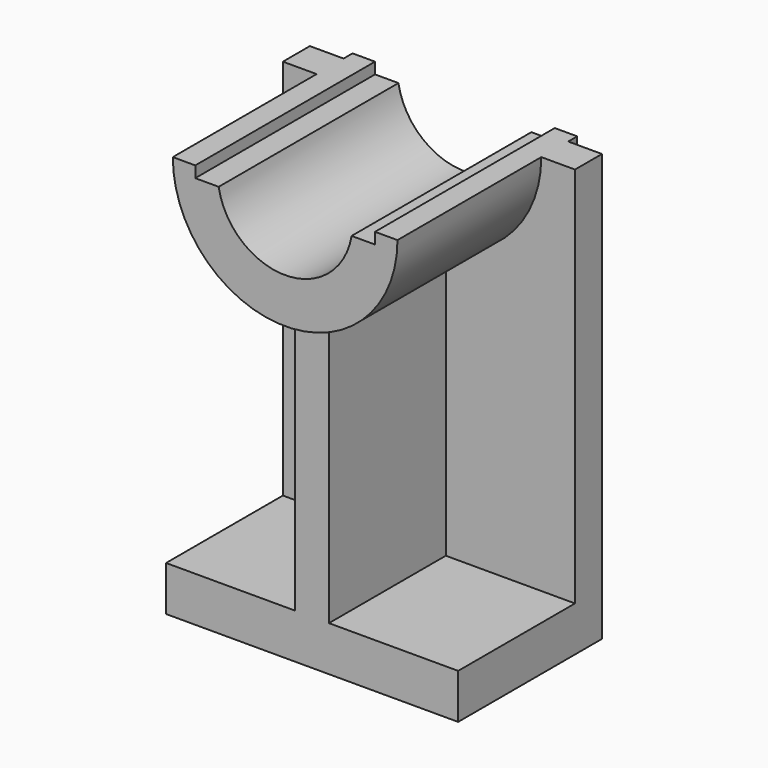
from build123d import *

# Parameters (mm, degrees)
F1_DEPTH = 215.9
F0_W     = 73.025
F0_H     = 82.55
F2_DEPTH = 25.4
F4_DEPTH = 120.65
F5_DEPTH = 127
F6_DEPTH = 6.35


with BuildPart() as f1:
    # F0 (on Top) → F1 (new body)
    with BuildSketch(Plane.XY):
        Polygon((73.025, 82.55), (73.025, 0), (92.075, 0), (92.075, 82.55), (165.1, 82.55), (165.1, 101.6), (0, 101.6), (0, 82.55), align=None)
    extrude(amount=F1_DEPTH)

    # F0 (on Top) + F1_face (on face) → F2 (join)
    with BuildSketch(Plane.XY):
        with Locations((36.5125, 41.275)):
            Rectangle(F0_W, F0_H)
        with Locations((128.5875, 41.275)):
            Rectangle(F0_W, F0_H)
    with BuildSketch(Plane(origin=(82.55, 75.141667, 215.9), x_dir=(1, 0, 0), z_dir=(0, 0, 1))):
        Polygon((-9.525, 7.408333), (-9.525, -75.141667), (9.525, -75.141667), (9.525, 7.408333), (82.55, 7.408333), (82.55, 26.458333), (-82.55, 26.458333), (-82.55, 7.408333), align=None)
    extrude(amount=F2_DEPTH)

    # F3 (on face) → F4 (join)
    with BuildSketch(Plane(origin=(0, 101.6, 0), x_dir=(-1, 0, 0), z_dir=(0, 1, 0))):
        with BuildLine():
            Line((-133.35, 241.3), (-146.05, 241.3))
            ThreePointArc((-146.05, 241.3), (-82.55, 177.8), (-19.05, 241.3))
            Line((-19.05, 241.3), (-31.75, 241.3))
            Line((-31.75, 241.3), (-31.75, 234.95))
            Line((-31.75, 234.95), (-44.982893, 234.95))
            ThreePointArc((-44.982893, 234.95), (-82.55, 203.2), (-120.117107, 234.95))
            Line((-120.117107, 234.95), (-133.35, 234.95))
            Line((-133.35, 234.95), (-133.35, 241.3))
        make_face()
    extrude(amount=-F4_DEPTH)

    # F3 (on face) → F5 (cut)
    with BuildSketch(Plane(origin=(0, 101.6, 0), x_dir=(-1, 0, 0), z_dir=(0, 1, 0))):
        with BuildLine():
            Line((-82.55, 241.3), (-133.35, 241.3))
            Line((-133.35, 241.3), (-133.35, 234.95))
            Line((-133.35, 234.95), (-120.117107, 234.95))
            ThreePointArc((-120.117107, 234.95), (-82.55, 203.2), (-44.982893, 234.95))
            Line((-44.982893, 234.95), (-31.75, 234.95))
            Line((-31.75, 234.95), (-31.75, 241.3))
            Line((-31.75, 241.3), (-82.55, 241.3))
        make_face()
    extrude(amount=-F5_DEPTH, mode=Mode.SUBTRACT)

    # F3 (on face) → F6 (join)
    with BuildSketch(Plane(origin=(0, 101.6, 0), x_dir=(-1, 0, 0), z_dir=(0, 1, 0))):
        with BuildLine():
            Line((-133.35, 241.3), (-146.05, 241.3))
            ThreePointArc((-146.05, 241.3), (-82.55, 177.8), (-19.05, 241.3))
            Line((-19.05, 241.3), (-31.75, 241.3))
            Line((-31.75, 241.3), (-31.75, 234.95))
            Line((-31.75, 234.95), (-44.982893, 234.95))
            ThreePointArc((-44.982893, 234.95), (-82.55, 203.2), (-120.117107, 234.95))
            Line((-120.117107, 234.95), (-133.35, 234.95))
            Line((-133.35, 234.95), (-133.35, 241.3))
        make_face()
    extrude(amount=F6_DEPTH)


solid = f1.part
